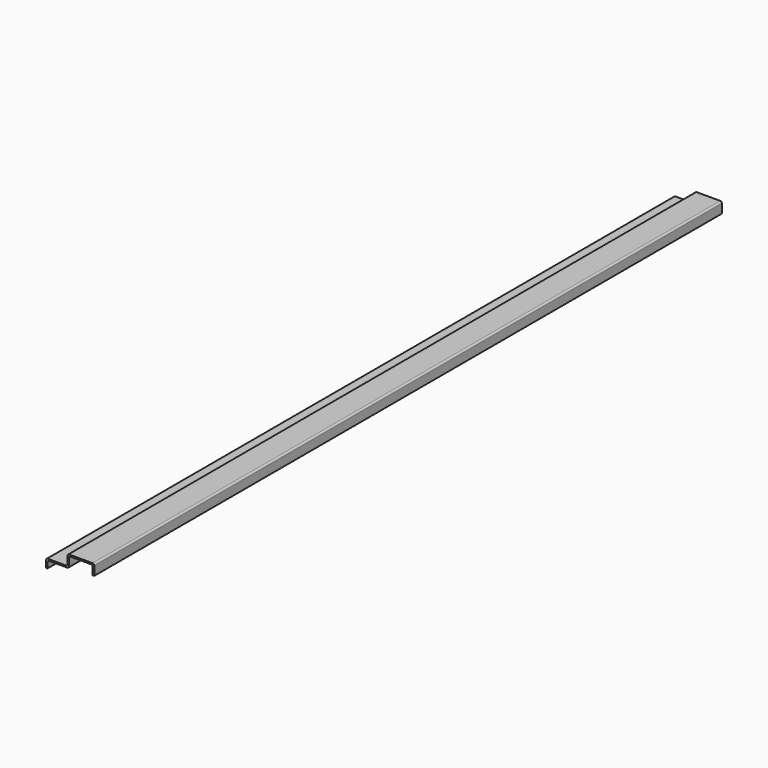
from build123d import *

# Parameters (mm, degrees)
F1_DEPTH = 2329


with BuildPart() as f1:
    # F0 (on Front) → F1 (new body)
    with BuildSketch(Plane.XZ):
        with BuildLine():
            Line((147.5, 120), (147.5, 146.75))
            ThreePointArc((147.5, 146.75), (146.035534, 150.285534), (142.5, 151.75))
            Line((142.5, 151.75), (73, 151.75))
            ThreePointArc((73, 151.75), (69.464466, 150.285534), (68, 146.75))
            Line((68, 146.75), (68, 125))
            ThreePointArc((68, 125), (66.535534, 121.464466), (63, 120))
            Line((63, 120), (9.5, 120))
            ThreePointArc((9.5, 120), (5.964466, 118.535534), (4.5, 115))
            Line((4.5, 115), (4.5, 94.6))
            Line((4.5, 94.6), (9, 94.6))
            Line((9, 94.6), (9, 110.5))
            ThreePointArc((9, 110.5), (10.464466, 114.035534), (14, 115.5))
            Line((14, 115.5), (67.5, 115.5))
            ThreePointArc((67.5, 115.5), (71.035534, 116.964466), (72.5, 120.5))
            Line((72.5, 120.5), (72.5, 142.25))
            ThreePointArc((72.5, 142.25), (73.964466, 145.785534), (77.5, 147.25))
            Line((77.5, 147.25), (138, 147.25))
            ThreePointArc((138, 147.25), (141.535534, 145.785534), (143, 142.25))
            Line((143, 142.25), (143, 120))
            Line((143, 120), (147.5, 120))
        make_face()
    extrude(amount=F1_DEPTH)


solid = f1.part
